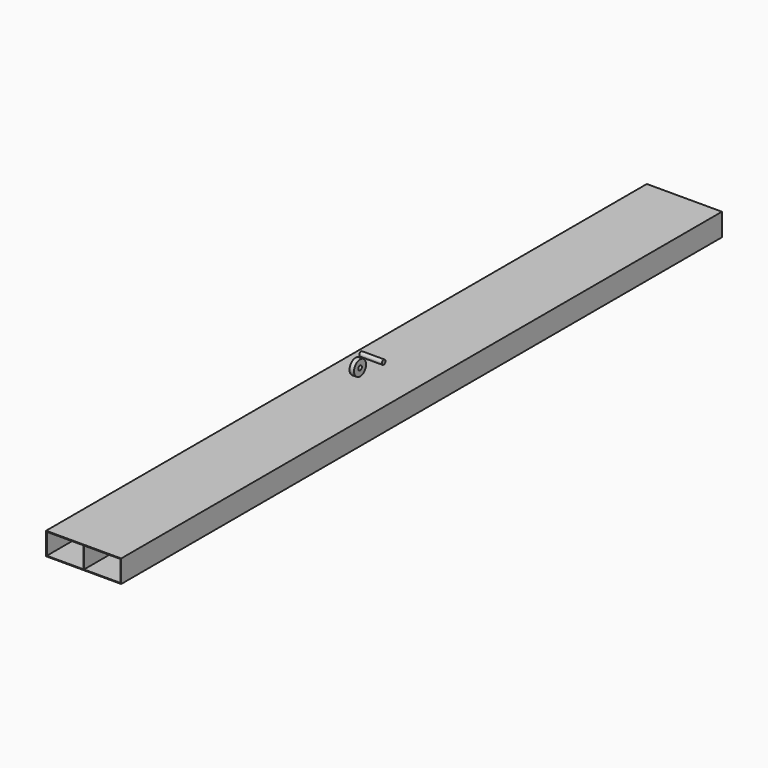
from build123d import *

# Parameters (mm, degrees)
F5_W      = 100
F5_H      = 30
F5_W_2    = 48.5
F5_H_2    = 28
F6_DEPTH  = 500
F7_R      = 10
F7_R_2    = 3
F8_DEPTH  = 3
F9_R      = 3
F10_DEPTH = 15


with BuildPart() as f6:
    # F5 (on Front) → F6 (new body, symmetric)
    with BuildSketch(Plane.XZ):
        Rectangle(F5_W, F5_H)
        with Locations((-24.75, 0)):
            Rectangle(F5_W_2, F5_H_2, mode=Mode.SUBTRACT)
        with Locations((24.75, 0)):
            Rectangle(F5_W_2, F5_H_2, mode=Mode.SUBTRACT)
    extrude(amount=F6_DEPTH, both=True)


with BuildPart() as f8:
    # F7 (on Right) → F8 (new body, symmetric)
    with BuildSketch(Plane.YZ):
        with Locations((-43.6093322933, 37.5644527376)):
            Circle(F7_R)
        with Locations((-43.6093322933, 37.5644527376)):
            Circle(F7_R_2, mode=Mode.SUBTRACT)
    extrude(amount=F8_DEPTH, both=True)


with BuildPart() as f10:
    # F9 (on Right) → F10 (new body, symmetric)
    with BuildSketch(Plane.YZ):
        with Locations((-19.3789340556, 38.2673740387)):
            Circle(F9_R)
    extrude(amount=F10_DEPTH, both=True)


solid = Compound([f6.part, f8.part, f10.part])
